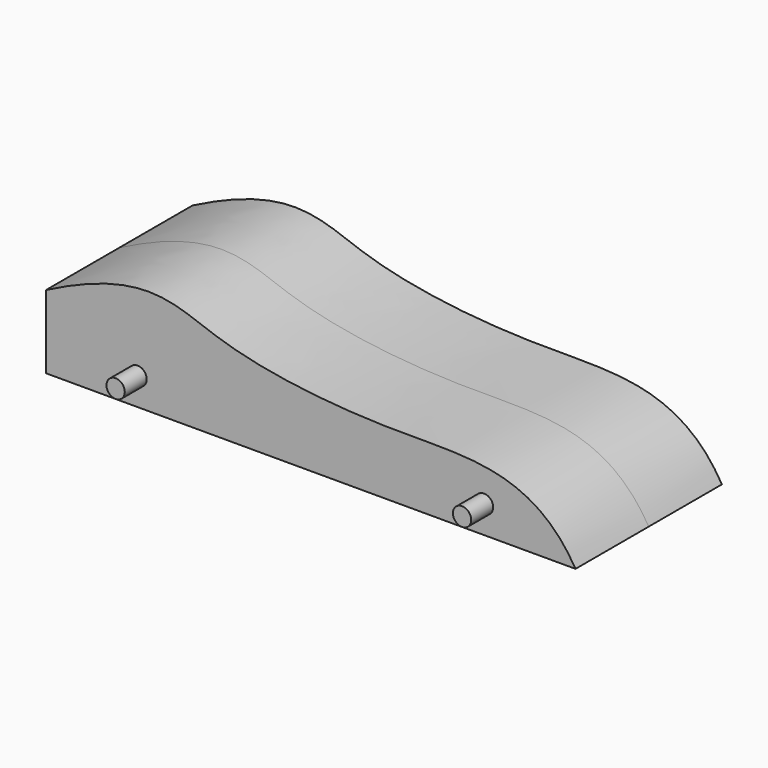
from build123d import *

# Parameters (mm, degrees)
F1_DEPTH      = 10
F1_DEPTH_BACK = 10
F2_R          = 1
F3_DEPTH      = 3
F4_R          = 1
F5_DEPTH      = 3


with BuildPart() as f1:
    # F0 (on Front) → F1 (new body, two sides)
    with BuildSketch(Plane.XZ) as f1_sk:
        with BuildLine():
            Line((0, 8.0180410296), (0, 0))
            Line((0, 0), (57.8655228019, 0))
            add(Edge.make_bspline(
                [(57.8655228019, 0), (53.3525021995, 7.678503938), (38.8737749231, 6.1488013594), (16.9168304935, 8.6407277286), (10.9544817757, 13.6306187476), (0, 8.0180410296)],
                knots=[0, 0, 0, 0, 0.3383348981, 0.6732781108, 1, 1, 1, 1], degree=3))
        make_face()
    extrude(amount=F1_DEPTH)
    extrude(f1_sk.sketch, amount=-F1_DEPTH_BACK)

    # F2 (on face) → F3 (join)
    with BuildSketch(Plane.XZ.offset(10)):
        with Locations((10, 3)):
            Circle(F2_R)
        with Locations((47.8655228019, 3)):
            Circle(F2_R)
    extrude(amount=F3_DEPTH)

    # F4 (on face) → F5 (join)
    with BuildSketch(Plane(origin=(0, 10, 0), x_dir=(-1, 0, 0), z_dir=(0, 1, 0))):
        with Locations((-47.8655228019, 3)):
            Circle(F4_R)
        with Locations((-10, 3)):
            Circle(F4_R)
    extrude(amount=F5_DEPTH)


solid = f1.part
